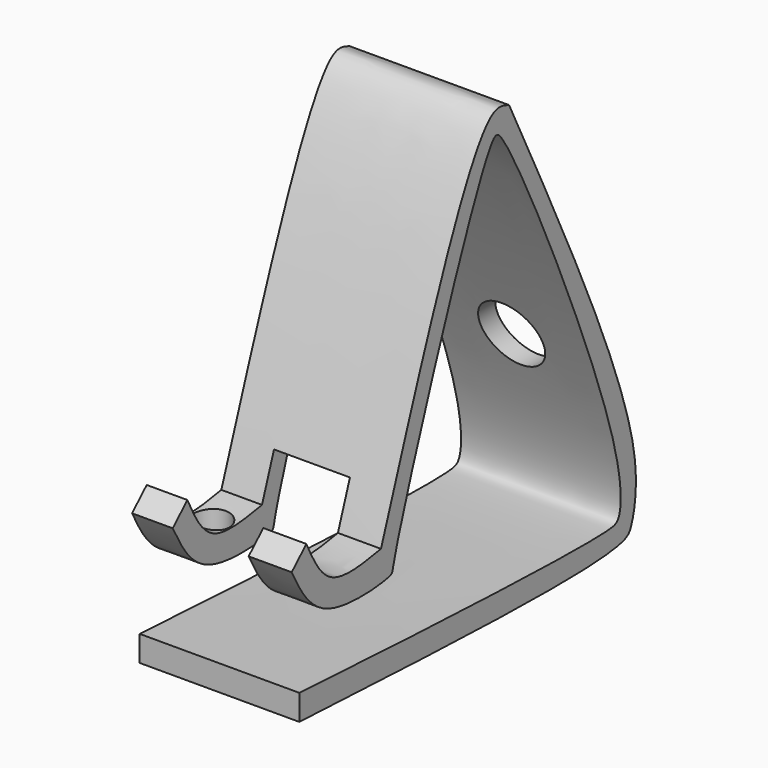
from build123d import *

# Parameters (mm, degrees)
F1_DEPTH = 50.8
F2_R     = 10.2220216049
F3_DEPTH = 50.8
F4_W     = 24.1547692567
F4_H     = 24.1547655314
F5_DEPTH = 127
F6_R     = 5.8300986484
F7_DEPTH = 12.7


with BuildPart() as f1:
    # F0 (on Right) → F1 (new body)
    with BuildSketch(Plane.YZ):
        with BuildLine():
            add(Edge.make_bspline(
                [(-83.4369831445, -35.2787248788), (-24.9006363158, -38.0032817898), (44.8785568467, -41.2511336507), (49.1854925175, -33.3409606877), (54.9431114975, -7.9838381905), (23.0306557103, 56.8249226152), (0, 103.5962606496)],
                knots=[0, 0, 0, 0, 0.3884023795, 0.4630012998, 0.6124575224, 1, 1, 1, 1], degree=3))
            add(Edge.make_bspline(
                [(0, 103.5962606496), (-2.106270749, 104.4240586645), (-12.8362928401, 108.6411285695), (-33.971625863, 48.4088584347), (-50.9581572022, 0)],
                knots=[0, 0, 0, 0, 0.196296963, 1, 1, 1, 1], degree=3))
            add(Edge.make_bspline(
                [(-50.9581572022, 0), (-58.24522292, -1.2562903604), (-72.2788002022, -3.6756795279), (-77.9234644483, 7.8828558245), (-80.637084208, 13.4395140347)],
                knots=[0, 0, 0, 0, 0.5192593144, 1, 1, 1, 1], degree=3))
            Line((-80.637084208, 13.4395140347), (-86.472907942, 7.8828558245))
            add(Edge.make_bspline(
                [(-83.4369831445, -27.1327674854), (-65.7603060655, -28.1199184784), (-29.6098195376, -30.1387361846), (38.4327422837, -32.5229765644), (44.9357011011, -30.1926221753), (45.164167703, -4.0104266132), (-0.0097451939, 95.8729742802), (-9.6797449936, 99.5653047305), (-47.5919622268, -6.2592257242), (-45.668921042, -9.5242886473), (-75.7172221471, -12.5455652217), (-82.9453554494, 1.1829271584), (-86.472907942, 7.8828558245)],
                knots=[0, 0, 0, 0, 0.1344524558, 0.274968065, 0.3105864262, 0.3969044902, 0.5809817767, 0.6155178373, 0.7983402084, 0.831618291, 0.9178245209, 1, 1, 1, 1], degree=3))
            Line((-83.4369831445, -27.1327674854), (-83.4369831445, -35.2787248788))
        make_face()
    extrude(amount=F1_DEPTH)

    # F2 (on Front) → F3 (cut)
    with BuildSketch(Plane.XZ):
        with Locations((25.3049898893, 17.9132148623)):
            Circle(F2_R)
    extrude(amount=-F3_DEPTH, mode=Mode.SUBTRACT)

    # F4 (on Front) → F5 (cut)
    with BuildSketch(Plane.XZ):
        with Locations((25.0174393877, 1.5224795789)):
            Rectangle(F4_W, F4_H)
    extrude(amount=F5_DEPTH, mode=Mode.SUBTRACT)

    # F6 (on Top) → F7 (cut)
    with BuildSketch(Plane.XY):
        with Locations((6.6178878769, -63.3820444345)):
            Circle(F6_R)
    extrude(amount=-F7_DEPTH, mode=Mode.SUBTRACT)


solid = f1.part
